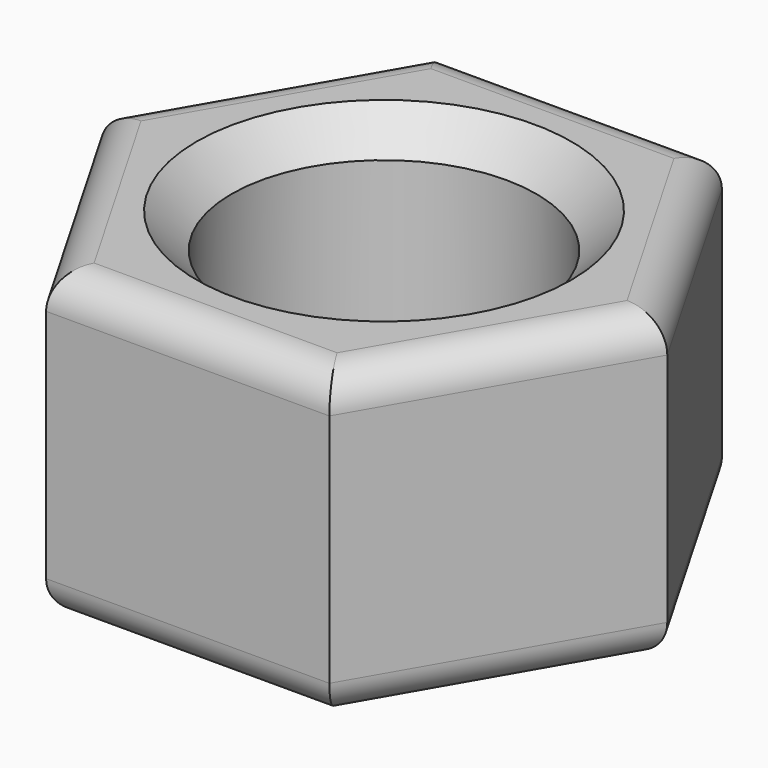
from build123d import *

# Parameters (mm, degrees)
F0_R     = 11.1125
F1_DEPTH = 22.225
F2_R     = 2.54
F3_SIZE  = 2.54


with BuildPart() as f1:
    # F0 (on Top) → F1 (new body)
    with BuildSketch(Plane.XY):
        Polygon((10.31875, -17.872599), (20.6375, 0), (10.31875, 17.872599), (-10.31875, 17.872599), (-20.6375, 0), (-10.31875, -17.872599), align=None)
        Circle(F0_R, mode=Mode.SUBTRACT)
    extrude(amount=F1_DEPTH)

    # F2
    f2_edges = [f1.edges().sort_by_distance(p)[0] for p in [
        (0, -17.872599, 22.225),
        (15.478125, -8.9363, 22.225),
        (15.478125, 8.9363, 22.225),
        (0, 17.872599, 22.225),
        (-15.478125, 8.9363, 22.225),
        (-15.478125, -8.9363, 22.225),
        (0, -17.872599, 0),
        (-15.478125, -8.9363, 0),
        (-15.478125, 8.9363, 0),
        (0, 17.872599, 0),
        (15.478125, 8.9363, 0),
        (15.478125, -8.9363, 0),
    ]]
    fillet(f2_edges, radius=F2_R)

    # F3
    f3_edges = [f1.edges().sort_by_distance(p)[0] for p in [
        (-11.1125, 0, 22.225),
    ]]
    chamfer(f3_edges, length=F3_SIZE)


solid = f1.part
